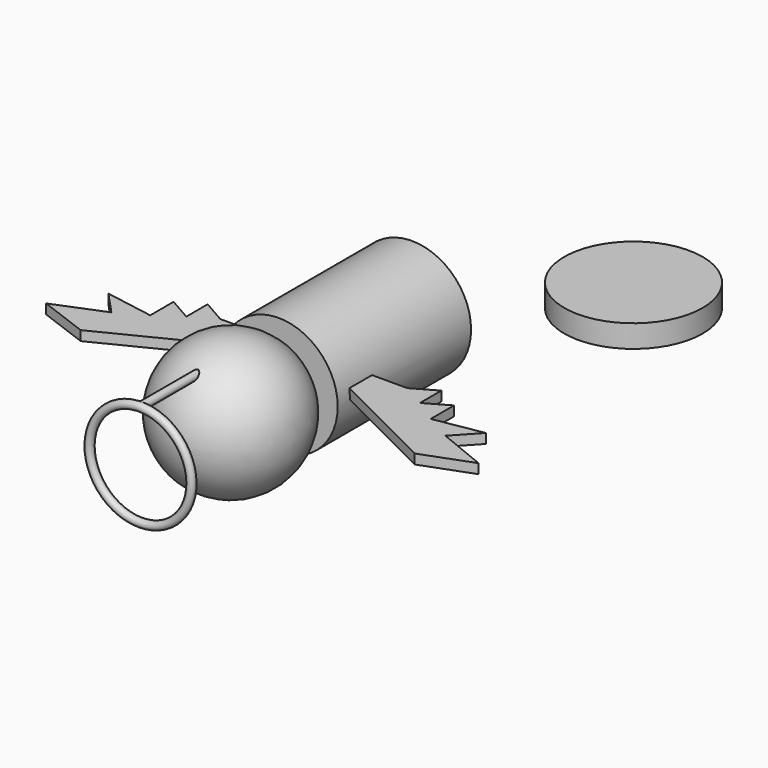
from build123d import *

# Parameters (mm, degrees)
F0_R      = 13.932866
F1_DEPTH  = 39.37
F5_DEPTH  = 2.286
F6_R      = 1.482449
F7_DEPTH  = 12.192
F9_R      = 0.900938
F12_DEPTH = 29.3624
F13_R     = 0.940517
F16_R     = 16.339583
F17_DEPTH = 5.334


with BuildPart() as f1:
    # F0 (on Front) → F1 (new body)
    with BuildSketch(Plane.XZ):
        Circle(F0_R)
    extrude(amount=F1_DEPTH)

    # F2 (on Top) → F3 (revolve)
    with BuildSketch(Plane.XY):
        with BuildLine():
            Line((0, -37.390619), (0, -69.749781))
            ThreePointArc((0, -69.749781), (16.179581, -53.5702), (0, -37.390619))
        make_face()
    revolve(axis=Axis((0, -53.5702, 0), (0, 1, 0)))

    # F4 (on Top) → F5 (join)
    with BuildSketch(Plane.XY):
        Polygon((10.031518, -28.992135), (11.018076, -34.319557), (39.430998, -48.526019), (51.072404, -44.185154), (39.430998, -39.449669), (44.561114, -33.924934), (33.117019, -35.898052), (33.117019, -28.992135), (27.592283, -32.149125), (27.592283, -25.835143), (22.067549, -28.992135), align=None)
        Polygon((10.031518, -28.992135), (11.018076, -34.319557), (39.430998, -48.526019), (51.072404, -44.185154), (39.430998, -39.449669), (44.561114, -33.924934), (33.117019, -35.898052), (33.117019, -28.992135), (27.592283, -32.149125), (27.592283, -25.835143), (22.067549, -28.992135), align=None)
    extrude(amount=F5_DEPTH)

    # F6 (on Front) → F7 (cut)
    with BuildSketch(Plane.XZ):
        with Locations((0, 11.601448)):
            Circle(F6_R)
    extrude(amount=F7_DEPTH, mode=Mode.SUBTRACT)

    # F10: F1 across plane


with BuildPart() as f1_1:
    add(f1.part)
    add(f1.part.mirror(Plane.YZ))

    # F9 (on offset) → F12 (join)
    with BuildSketch(Plane.XZ.offset(50.8)):
        with Locations((0, 12.03866)):
            Circle(F9_R)
    extrude(amount=F12_DEPTH)

    # F13 (on Right) → F15 (revolve)
    with BuildSketch(Plane.YZ):
        with Locations((-80.156393, 12.031429)):
            Circle(F13_R)
    revolve(axis=Axis((0, -76.580219, 0), (0, -1, 0)))


with BuildPart() as f17:
    # F16 (on Top) → F17 (new body)
    with BuildSketch(Plane.XY):
        with Locations((31.909499, 25.4617)):
            Circle(F16_R)
    extrude(amount=F17_DEPTH)


solid = Compound([f1_1.part, f17.part])
